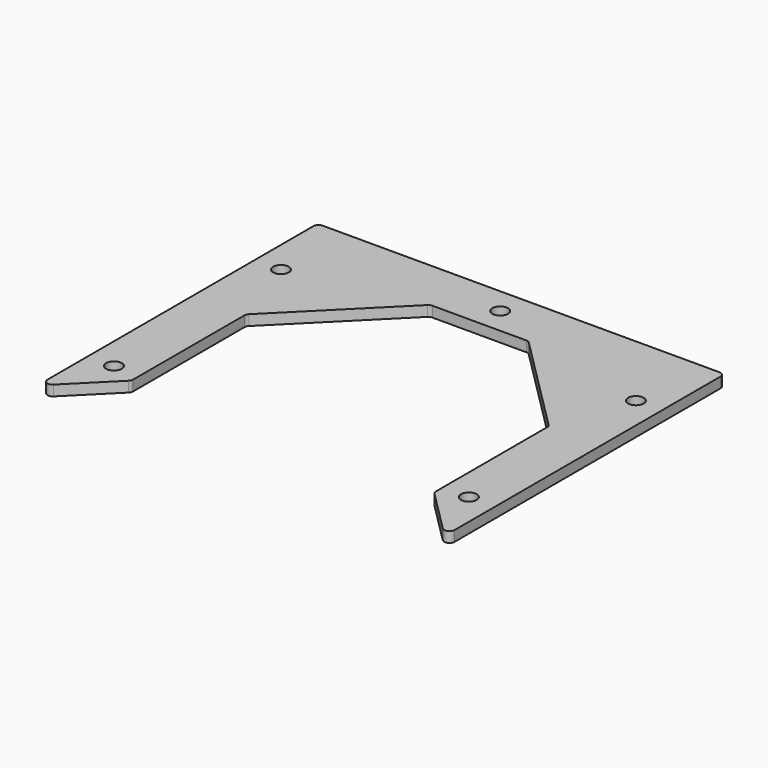
from build123d import *

# Parameters (mm, degrees)
SKETCH_R  = 3
PAD_DEPTH = 4


with BuildPart() as part:
    # Sketch → Pad (new body)
    with BuildSketch(Plane.XY):
        with BuildLine():
            Line((-78, 8), (-78, -119.313708))
            ThreePointArc((-78, -119.313708), (-76.765367, -121.161468), (-74.585786, -120.727922))
            Line((-74.585786, -120.727922), (-58.585786, -104.727922))
            ThreePointArc((-58.585786, -104.727922), (-58.152241, -104.079075), (-58, -103.313708))
            Line((-58, -50), (-58, -103.313708))
            ThreePointArc((-57.414214, -48.585786), (-57.847759, -49.234633), (-58, -50))
            Line((-57.414214, -48.585786), (-19.414214, -10.585786))
            ThreePointArc((-18, -10), (-18.765367, -10.152241), (-19.414214, -10.585786))
            Line((-18, -10), (18, -10))
            ThreePointArc((19.414214, -10.585786), (18.765367, -10.152241), (18, -10))
            Line((19.414214, -10.585786), (57.414214, -48.585786))
            ThreePointArc((58, -50), (57.847759, -49.234633), (57.414214, -48.585786))
            Line((58, -50), (58, -103.313708))
            ThreePointArc((58, -103.313708), (58.152241, -104.079075), (58.585786, -104.727922))
            Line((58.585786, -104.727922), (74.585786, -120.727922))
            ThreePointArc((74.585786, -120.727922), (76.765367, -121.161468), (78, -119.313708))
            Line((78, -119.313708), (78, 8))
            ThreePointArc((78, 8), (77.414214, 9.414214), (76, 10))
            Line((76, 10), (-76, 10))
            ThreePointArc((-76, 10), (-77.414214, 9.414214), (-78, 8))
        make_face()
        with Locations((-68, -20)):
            Circle(SKETCH_R, mode=Mode.SUBTRACT)
        with Locations((-68, -100)):
            Circle(SKETCH_R, mode=Mode.SUBTRACT)
        with Locations((68, -20)):
            Circle(SKETCH_R, mode=Mode.SUBTRACT)
        with Locations((68, -100)):
            Circle(SKETCH_R, mode=Mode.SUBTRACT)
        Circle(SKETCH_R, mode=Mode.SUBTRACT)
    extrude(amount=PAD_DEPTH)


solid = part.part
